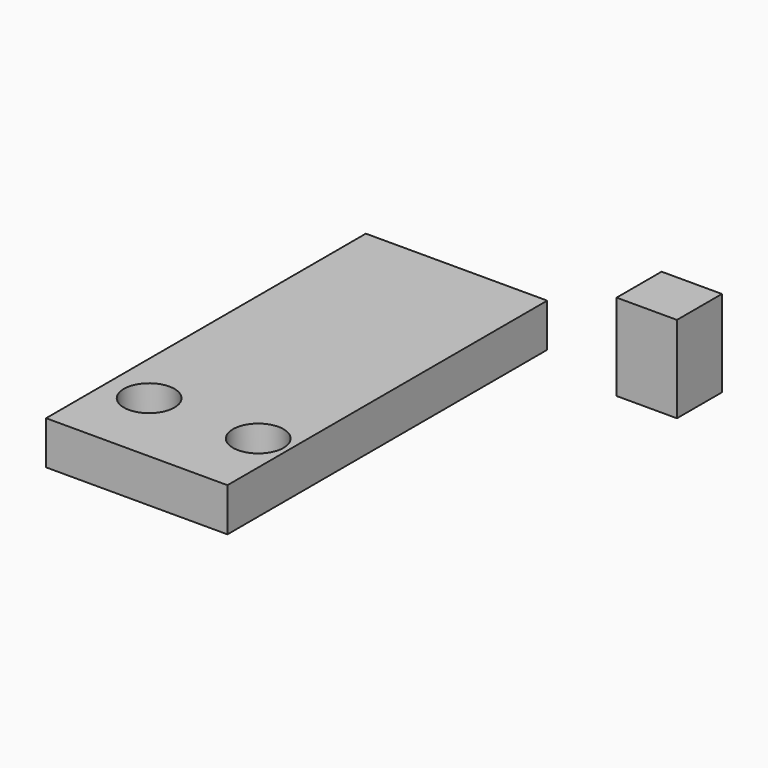
from build123d import *

# Parameters (mm, degrees)
F0_W     = 53.1815
F0_H     = 117.196273
F1_DEPTH = 12.7
F0_W_2   = 17.690659
F0_H_2   = 16.48447
F2_DEPTH = 25.4
F3_R     = 7.419918
F4_DEPTH = 37.084


with BuildPart() as f1:
    # F0 (on Top) → F1 (new body)
    with BuildSketch(Plane.XY):
        with Locations((-1.641404, -2.790385)):
            Rectangle(F0_W, F0_H)
    extrude(amount=F1_DEPTH)

    # F3 (on face) → F4 (cut)
    with BuildSketch(Plane.XY.offset(12.7)):
        with Locations((-15.993746, -38.910057)):
            Circle(F3_R)
        with Locations((15.993746, -38.910057)):
            Circle(F3_R)
    extrude(amount=-F4_DEPTH, mode=Mode.SUBTRACT)


with BuildPart() as f2:
    # F0 (on Top) → F2 (new body)
    with BuildSketch(Plane.XY):
        with Locations((60.510076, 56.087412)):
            Rectangle(F0_W_2, F0_H_2)
    extrude(amount=F2_DEPTH)


solid = Compound([f1.part, f2.part])
